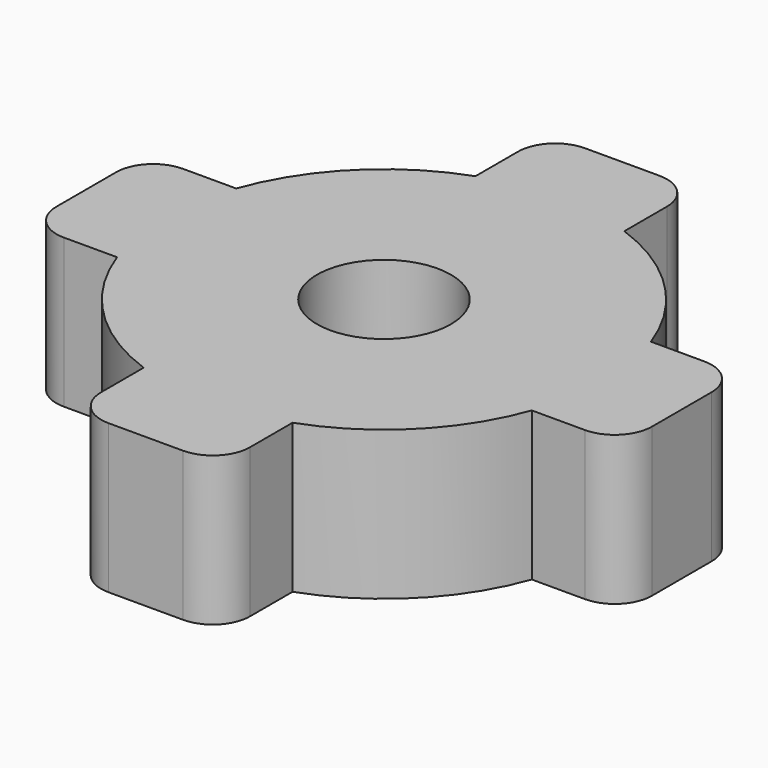
from build123d import *

# Parameters (mm, degrees)
F0_R     = 7.9375
F0_R_2   = 5.715
F1_DEPTH = 12.7


with BuildPart() as f1:
    # F0 (on Top) → F1 (new body)
    with BuildSketch(Plane.XY):
        with BuildLine():
            ThreePointArc((-17.690877, -6.35), (-18.796, 0), (-17.690877, 6.35))
            Line((-17.690877, 6.35), (-22.225, 6.35))
            ThreePointArc((-22.225, 6.35), (-24.470064, 5.420064), (-25.4, 3.175))
            Line((-25.4, 3.175), (-25.4, -3.175))
            ThreePointArc((-25.4, -3.175), (-24.470064, -5.420064), (-22.225, -6.35))
            Line((-22.225, -6.35), (-17.690877, -6.35))
        make_face()
        with BuildLine():
            ThreePointArc((17.690877, -6.35), (18.517658, -3.222724), (18.796, 0))
            ThreePointArc((18.796, 0), (18.517658, 3.222724), (17.690877, 6.35))
            ThreePointArc((17.690877, 6.35), (13.290779, 13.290779), (6.35, 17.690877))
            ThreePointArc((6.35, 17.690877), (0, 18.796), (-6.35, 17.690877))
            ThreePointArc((-6.35, 17.690877), (-13.290779, 13.290779), (-17.690877, 6.35))
            ThreePointArc((-17.690877, 6.35), (-18.796, 0), (-17.690877, -6.35))
            ThreePointArc((-17.690877, -6.35), (-13.290779, -13.290779), (-6.35, -17.690877))
            ThreePointArc((-6.35, -17.690877), (0, -18.796), (6.35, -17.690877))
            ThreePointArc((6.35, -17.690877), (13.290779, -13.290779), (17.690877, -6.35))
        make_face()
        Circle(F0_R, mode=Mode.SUBTRACT)
        with BuildLine():
            ThreePointArc((-6.35, 17.690877), (0, 18.796), (6.35, 17.690877))
            Line((6.35, 17.690877), (6.35, 22.225))
            ThreePointArc((6.35, 22.225), (5.420064, 24.470064), (3.175, 25.4))
            Line((3.175, 25.4), (-3.175, 25.4))
            ThreePointArc((-3.175, 25.4), (-5.420064, 24.470064), (-6.35, 22.225))
            Line((-6.35, 22.225), (-6.35, 17.690877))
        make_face()
        with BuildLine():
            Line((6.35, -22.225), (6.35, -17.690877))
            ThreePointArc((6.35, -17.690877), (0, -18.796), (-6.35, -17.690877))
            Line((-6.35, -17.690877), (-6.35, -22.225))
            ThreePointArc((-6.35, -22.225), (-5.420064, -24.470064), (-3.175, -25.4))
            Line((-3.175, -25.4), (3.175, -25.4))
            ThreePointArc((3.175, -25.4), (5.420064, -24.470064), (6.35, -22.225))
        make_face()
        with BuildLine():
            ThreePointArc((17.690877, 6.35), (18.517658, 3.222724), (18.796, 0))
            ThreePointArc((18.796, 0), (18.517658, -3.222724), (17.690877, -6.35))
            Line((17.690877, -6.35), (22.225, -6.35))
            ThreePointArc((22.225, -6.35), (24.470064, -5.420064), (25.4, -3.175))
            Line((25.4, -3.175), (25.4, 3.175))
            ThreePointArc((25.4, 3.175), (24.470064, 5.420064), (22.225, 6.35))
            Line((22.225, 6.35), (17.690877, 6.35))
        make_face()
        Circle(F0_R)
        Circle(F0_R_2, mode=Mode.SUBTRACT)
    extrude(amount=F1_DEPTH)


solid = f1.part
